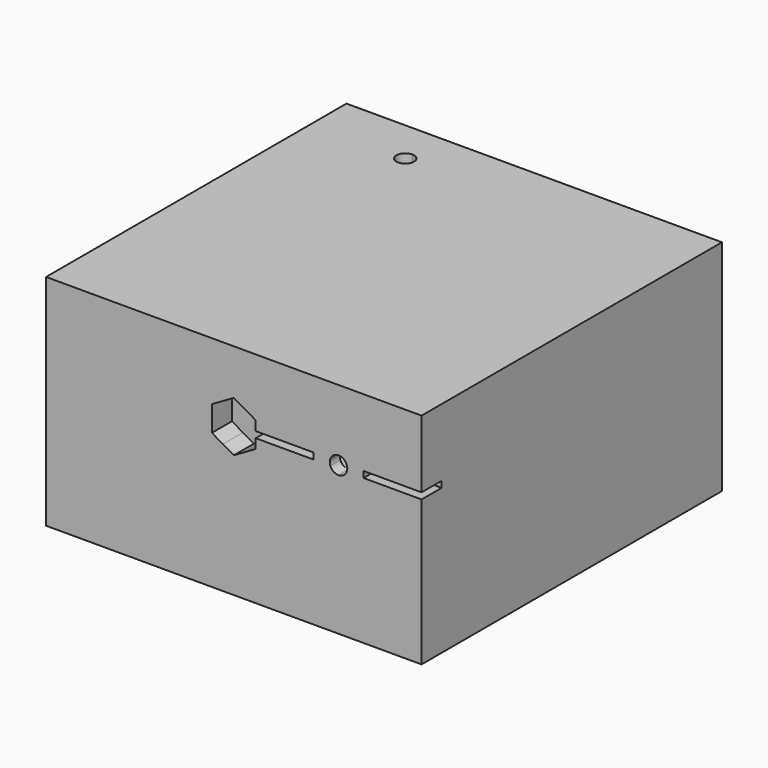
from build123d import *

# Parameters (mm, degrees)
F0_W     = 60
F0_H     = 60
F1_DEPTH = 35
F3_DEPTH = 10
F2_W     = 9.2679491924
F2_H     = 1
F4_DEPTH = 4
F5_DEPTH = 2
F6_W     = 2
F6_H     = 0.5
F6_H_2   = 4.5
F6_W_2   = 1.75
F7_DEPTH = 10
F9_DEPTH = 23


with BuildPart() as f1:
    # F0 (on Top) → F1 (new body)
    with BuildSketch(Plane.XY):
        Rectangle(F0_W, F0_H)
    extrude(amount=F1_DEPTH)

    # F2 (on face) → F3 (cut)
    with BuildSketch(Plane.XZ.offset(30)):
        with BuildLine():
            ThreePointArc((15.4243811245, 24.2090167701), (15.9383254142, 24.8622730296), (16.7320508076, 25.1090167701))
            Line((16.7320508076, 25.1090167701), (12.7320508076, 25.1090167701))
            Line((12.7320508076, 25.1090167701), (12.7320508076, 24.2090167701))
            Line((12.7320508076, 24.2090167701), (15.4243811245, 24.2090167701))
        make_face()
        with BuildLine():
            ThreePointArc((15.4243811245, 23.2090167701), (15.3320508076, 23.7090167701), (15.4243811245, 24.2090167701))
            Line((15.4243811245, 24.2090167701), (12.7320508076, 24.2090167701))
            Line((12.7320508076, 24.2090167701), (12.7320508076, 23.2090167701))
            Line((12.7320508076, 23.2090167701), (15.4243811245, 23.2090167701))
        make_face()
        with BuildLine():
            Line((12.7320508076, 22.3090167701), (16.7320508076, 22.3090167701))
            ThreePointArc((16.7320508076, 22.3090167701), (15.9383254142, 22.5557605107), (15.4243811245, 23.2090167701))
            Line((15.4243811245, 23.2090167701), (12.7320508076, 23.2090167701))
            Line((12.7320508076, 23.2090167701), (12.7320508076, 22.3090167701))
        make_face()
        with BuildLine():
            ThreePointArc((18.1320508076, 23.7090167701), (18.1087747371, 23.9632434836), (18.0397204906, 24.2090167701))
            ThreePointArc((18.0397204906, 24.2090167701), (17.5257762009, 24.8622730296), (16.7320508076, 25.1090167701))
            ThreePointArc((16.7320508076, 25.1090167701), (15.9383254142, 24.8622730296), (15.4243811245, 24.2090167701))
            ThreePointArc((15.4243811245, 24.2090167701), (15.3320508076, 23.7090167701), (15.4243811245, 23.2090167701))
            ThreePointArc((15.4243811245, 23.2090167701), (15.9383254142, 22.5557605107), (16.7320508076, 22.3090167701))
            ThreePointArc((16.7320508076, 22.3090167701), (17.5257762009, 22.5557605107), (18.0397204906, 23.2090167701))
            ThreePointArc((18.0397204906, 23.2090167701), (18.1087747371, 23.4547900566), (18.1320508076, 23.7090167701))
        make_face()
        with BuildLine():
            Line((18.0397204906, 24.2090167701), (20.7320508076, 24.2090167701))
            Line((20.7320508076, 24.2090167701), (20.7320508076, 25.1090167701))
            Line((20.7320508076, 25.1090167701), (16.7320508076, 25.1090167701))
            ThreePointArc((16.7320508076, 25.1090167701), (17.5257762009, 24.8622730296), (18.0397204906, 24.2090167701))
        make_face()
        with BuildLine():
            Line((20.7320508076, 23.2090167701), (20.7320508076, 24.2090167701))
            Line((20.7320508076, 24.2090167701), (18.0397204906, 24.2090167701))
            ThreePointArc((18.0397204906, 24.2090167701), (18.1087747371, 23.9632434836), (18.1320508076, 23.7090167701))
            ThreePointArc((18.1320508076, 23.7090167701), (18.1087747371, 23.4547900566), (18.0397204906, 23.2090167701))
            Line((18.0397204906, 23.2090167701), (20.7320508076, 23.2090167701))
        make_face()
        with BuildLine():
            Line((20.7320508076, 22.3090167701), (20.7320508076, 23.2090167701))
            Line((20.7320508076, 23.2090167701), (18.0397204906, 23.2090167701))
            ThreePointArc((18.0397204906, 23.2090167701), (17.5257762009, 22.5557605107), (16.7320508076, 22.3090167701))
            Line((16.7320508076, 22.3090167701), (20.7320508076, 22.3090167701))
        make_face()
    extrude(amount=-F3_DEPTH, mode=Mode.SUBTRACT)

    # F2 (on face) → F4 (cut)
    with BuildSketch(Plane.XZ.offset(30)):
        with Locations((25.3660254038, 23.7090167701)):
            Rectangle(F2_W, F2_H)
        with BuildLine():
            Line((20.7320508076, 23.2090167701), (20.7320508076, 24.2090167701))
            Line((20.7320508076, 24.2090167701), (18.0397204906, 24.2090167701))
            ThreePointArc((18.0397204906, 24.2090167701), (18.1087747371, 23.9632434836), (18.1320508076, 23.7090167701))
            ThreePointArc((18.1320508076, 23.7090167701), (18.1087747371, 23.4547900566), (18.0397204906, 23.2090167701))
            Line((18.0397204906, 23.2090167701), (20.7320508076, 23.2090167701))
        make_face()
        with BuildLine():
            Line((18.0397204906, 24.2090167701), (20.7320508076, 24.2090167701))
            Line((20.7320508076, 24.2090167701), (20.7320508076, 25.1090167701))
            Line((20.7320508076, 25.1090167701), (16.7320508076, 25.1090167701))
            ThreePointArc((16.7320508076, 25.1090167701), (17.5257762009, 24.8622730296), (18.0397204906, 24.2090167701))
        make_face()
        with BuildLine():
            ThreePointArc((18.1320508076, 23.7090167701), (18.1087747371, 23.9632434836), (18.0397204906, 24.2090167701))
            ThreePointArc((18.0397204906, 24.2090167701), (17.5257762009, 24.8622730296), (16.7320508076, 25.1090167701))
            ThreePointArc((16.7320508076, 25.1090167701), (15.9383254142, 24.8622730296), (15.4243811245, 24.2090167701))
            ThreePointArc((15.4243811245, 24.2090167701), (15.3320508076, 23.7090167701), (15.4243811245, 23.2090167701))
            ThreePointArc((15.4243811245, 23.2090167701), (15.9383254142, 22.5557605107), (16.7320508076, 22.3090167701))
            ThreePointArc((16.7320508076, 22.3090167701), (17.5257762009, 22.5557605107), (18.0397204906, 23.2090167701))
            ThreePointArc((18.0397204906, 23.2090167701), (18.1087747371, 23.4547900566), (18.1320508076, 23.7090167701))
        make_face()
        with BuildLine():
            Line((20.7320508076, 22.3090167701), (20.7320508076, 23.2090167701))
            Line((20.7320508076, 23.2090167701), (18.0397204906, 23.2090167701))
            ThreePointArc((18.0397204906, 23.2090167701), (17.5257762009, 22.5557605107), (16.7320508076, 22.3090167701))
            Line((16.7320508076, 22.3090167701), (20.7320508076, 22.3090167701))
        make_face()
        with BuildLine():
            ThreePointArc((15.4243811245, 24.2090167701), (15.9383254142, 24.8622730296), (16.7320508076, 25.1090167701))
            Line((16.7320508076, 25.1090167701), (12.7320508076, 25.1090167701))
            Line((12.7320508076, 25.1090167701), (12.7320508076, 24.2090167701))
            Line((12.7320508076, 24.2090167701), (15.4243811245, 24.2090167701))
        make_face()
        with BuildLine():
            ThreePointArc((15.4243811245, 23.2090167701), (15.3320508076, 23.7090167701), (15.4243811245, 24.2090167701))
            Line((15.4243811245, 24.2090167701), (12.7320508076, 24.2090167701))
            Line((12.7320508076, 24.2090167701), (12.7320508076, 23.2090167701))
            Line((12.7320508076, 23.2090167701), (15.4243811245, 23.2090167701))
        make_face()
        with BuildLine():
            Line((12.7320508076, 22.3090167701), (16.7320508076, 22.3090167701))
            ThreePointArc((16.7320508076, 22.3090167701), (15.9383254142, 22.5557605107), (15.4243811245, 23.2090167701))
            Line((15.4243811245, 23.2090167701), (12.7320508076, 23.2090167701))
            Line((12.7320508076, 23.2090167701), (12.7320508076, 22.3090167701))
        make_face()
        Polygon((12.7320508076, 23.2090167701), (12.7320508076, 24.2090167701), (3.5, 24.2090167701), (3.5, 23.7090167701), (3.5, 23.2090167701), align=None)
        with BuildLine():
            Line((3.4641016151, 24.2090167701), (3.5, 24.2090167701))
            Line((3.5, 24.2090167701), (3.5, 25.7297427123))
            Line((3.5, 25.7297427123), (1.7500000362, 26.7401056625))
            ThreePointArc((1.7500000362, 26.7401056625), (2.897984947, 25.6715873414), (3.4641016151, 24.2090167701))
        make_face()
        with BuildLine():
            Line((3.5, 23.7090167701), (3.5, 24.2090167701))
            Line((3.5, 24.2090167701), (3.4641016151, 24.2090167701))
            ThreePointArc((3.4641016151, 24.2090167701), (3.491013868, 23.9596602889), (3.5, 23.7090167701))
        make_face()
        with BuildLine():
            Line((3.4641016151, 23.2090167701), (3.5, 23.2090167701))
            Line((3.5, 23.2090167701), (3.5, 23.7090167701))
            ThreePointArc((3.5, 23.7090167701), (3.491013868, 23.4583732513), (3.4641016151, 23.2090167701))
        make_face()
        with BuildLine():
            Line((3.5, 21.688290828), (3.5, 23.2090167701))
            Line((3.5, 23.2090167701), (3.4641016151, 23.2090167701))
            ThreePointArc((3.4641016151, 23.2090167701), (2.8979849006, 21.7464461304), (1.7499998929, 20.6779277951))
            Line((1.7499998929, 20.6779277951), (3.5, 21.688290828))
        make_face()
        with BuildLine():
            ThreePointArc((3.4641016151, 23.2090167701), (3.491013868, 23.4583732513), (3.5, 23.7090167701))
            ThreePointArc((3.5, 23.7090167701), (3.491013868, 23.9596602889), (3.4641016151, 24.2090167701))
            ThreePointArc((3.4641016151, 24.2090167701), (2.897984947, 25.6715873414), (1.7500000362, 26.7401056625))
            ThreePointArc((1.7500000362, 26.7401056625), (-1.83e-08, 27.2090167701), (-1.7500000679, 26.7401056441))
            ThreePointArc((-1.7500000679, 26.7401056441), (-3.0310889329, 25.4590167362), (-3.5, 23.7090167701))
            ThreePointArc((-3.5, 23.7090167701), (-3.0310889298, 21.9590167989), (-1.7500000575, 20.6779278901))
            ThreePointArc((-1.7500000575, 20.6779278901), (-9.5e-08, 20.2090167701), (1.7499998929, 20.6779277951))
            ThreePointArc((1.7499998929, 20.6779277951), (2.8979849006, 21.7464461304), (3.4641016151, 23.2090167701))
        make_face()
        with BuildLine():
            ThreePointArc((-1.7500000679, 26.7401056441), (-1.83e-08, 27.2090167701), (1.7500000362, 26.7401056625))
            Line((1.7500000362, 26.7401056625), (0, 27.7504686545))
            Line((0, 27.7504686545), (-1.7500000679, 26.7401056441))
        make_face()
        with BuildLine():
            Line((0, 19.6675648858), (1.7499998929, 20.6779277951))
            ThreePointArc((1.7499998929, 20.6779277951), (-9.5e-08, 20.2090167701), (-1.7500000575, 20.6779278901))
            Line((-1.7500000575, 20.6779278901), (0, 19.6675648858))
        make_face()
        with BuildLine():
            ThreePointArc((-3.5, 23.7090167701), (-3.0310889329, 25.4590167362), (-1.7500000679, 26.7401056441))
            Line((-1.7500000679, 26.7401056441), (-3.5, 25.7297427123))
            Line((-3.5, 25.7297427123), (-3.5, 23.7090167701))
        make_face()
        with BuildLine():
            Line((-3.5, 21.688290828), (-1.7500000575, 20.6779278901))
            ThreePointArc((-1.7500000575, 20.6779278901), (-3.0310889298, 21.9590167989), (-3.5, 23.7090167701))
            Line((-3.5, 23.7090167701), (-3.5, 21.688290828))
        make_face()
    extrude(amount=-F4_DEPTH, mode=Mode.SUBTRACT)

    # F2 (on face) → F5 (join)
    with BuildSketch(Plane.XZ.offset(30)):
        with BuildLine():
            Line((20.7320508076, 22.3090167701), (20.7320508076, 23.2090167701))
            Line((20.7320508076, 23.2090167701), (18.0397204906, 23.2090167701))
            ThreePointArc((18.0397204906, 23.2090167701), (17.5257762009, 22.5557605107), (16.7320508076, 22.3090167701))
            Line((16.7320508076, 22.3090167701), (20.7320508076, 22.3090167701))
        make_face()
        with BuildLine():
            ThreePointArc((15.4243811245, 24.2090167701), (15.9383254142, 24.8622730296), (16.7320508076, 25.1090167701))
            Line((16.7320508076, 25.1090167701), (12.7320508076, 25.1090167701))
            Line((12.7320508076, 25.1090167701), (12.7320508076, 24.2090167701))
            Line((12.7320508076, 24.2090167701), (15.4243811245, 24.2090167701))
        make_face()
        with BuildLine():
            Line((12.7320508076, 22.3090167701), (16.7320508076, 22.3090167701))
            ThreePointArc((16.7320508076, 22.3090167701), (15.9383254142, 22.5557605107), (15.4243811245, 23.2090167701))
            Line((15.4243811245, 23.2090167701), (12.7320508076, 23.2090167701))
            Line((12.7320508076, 23.2090167701), (12.7320508076, 22.3090167701))
        make_face()
        with BuildLine():
            Line((20.7320508076, 23.2090167701), (20.7320508076, 24.2090167701))
            Line((20.7320508076, 24.2090167701), (18.0397204906, 24.2090167701))
            ThreePointArc((18.0397204906, 24.2090167701), (18.1087747371, 23.9632434836), (18.1320508076, 23.7090167701))
            ThreePointArc((18.1320508076, 23.7090167701), (18.1087747371, 23.4547900566), (18.0397204906, 23.2090167701))
            Line((18.0397204906, 23.2090167701), (20.7320508076, 23.2090167701))
        make_face()
        with BuildLine():
            ThreePointArc((15.4243811245, 23.2090167701), (15.3320508076, 23.7090167701), (15.4243811245, 24.2090167701))
            Line((15.4243811245, 24.2090167701), (12.7320508076, 24.2090167701))
            Line((12.7320508076, 24.2090167701), (12.7320508076, 23.2090167701))
            Line((12.7320508076, 23.2090167701), (15.4243811245, 23.2090167701))
        make_face()
        with BuildLine():
            Line((18.0397204906, 24.2090167701), (20.7320508076, 24.2090167701))
            Line((20.7320508076, 24.2090167701), (20.7320508076, 25.1090167701))
            Line((20.7320508076, 25.1090167701), (16.7320508076, 25.1090167701))
            ThreePointArc((16.7320508076, 25.1090167701), (17.5257762009, 24.8622730296), (18.0397204906, 24.2090167701))
        make_face()
    extrude(amount=-F5_DEPTH)

    # F6 (on face) → F7 (cut)
    with BuildSketch(Plane(origin=(0, 30, 0), x_dir=(-1, 0, 0), z_dir=(0, 1, 0))):
        with BuildLine():
            ThreePointArc((-1.7499999142, 20.6296540127), (1.58e-08, 21.0985650499), (1.7499999416, 20.6296539969))
            Line((1.7499999416, 20.6296539969), (0, 21.6400169342))
            Line((0, 21.6400169342), (-1.7499999142, 20.6296540127))
        make_face()
        with BuildLine():
            Line((-3.5, 19.6192909921), (-3.5, 17.5985650499))
            ThreePointArc((-3.5, 17.5985650499), (-3.0310888885, 19.3485650928), (-1.7499999142, 20.6296540127))
            Line((-1.7499999142, 20.6296540127), (-3.5, 19.6192909921))
        make_face()
        with BuildLine():
            Line((-3.5, 15.5778391077), (-1.7500000132, 14.5674761443))
            ThreePointArc((-1.7500000132, 14.5674761443), (-3.0310889171, 15.8485650565), (-3.5, 17.5985650499))
            Line((-3.5, 17.5985650499), (-3.5, 15.5778391077))
        make_face()
        with BuildLine():
            Line((0, 13.5571131656), (1.7500000301, 14.567476154))
            ThreePointArc((1.7500000301, 14.567476154), (9.8e-09, 14.0985650499), (-1.7500000132, 14.5674761443))
            Line((-1.7500000132, 14.5674761443), (0, 13.5571131656))
        make_face()
        with BuildLine():
            Line((3.5, 15.5778391077), (3.5, 17.0985650499))
            Line((3.5, 17.0985650499), (3.4641016151, 17.0985650499))
            ThreePointArc((3.4641016151, 17.0985650499), (2.897984945, 15.6359944757), (1.7500000301, 14.567476154))
            Line((1.7500000301, 14.567476154), (3.5, 15.5778391077))
        make_face()
        with BuildLine():
            Line((3.4641016151, 17.0985650499), (3.5, 17.0985650499))
            Line((3.5, 17.0985650499), (3.5, 17.5985650499))
            ThreePointArc((3.5, 17.5985650499), (3.491013868, 17.3479215311), (3.4641016151, 17.0985650499))
        make_face()
        with BuildLine():
            ThreePointArc((3.4641016151, 18.0985650499), (3.491013868, 17.8492085687), (3.5, 17.5985650499))
            Line((3.5, 17.5985650499), (3.5, 18.0985650499))
            Line((3.5, 18.0985650499), (3.4641016151, 18.0985650499))
        make_face()
        with BuildLine():
            ThreePointArc((1.7499999416, 20.6296539969), (2.8979849163, 19.5611356664), (3.4641016151, 18.0985650499))
            Line((3.4641016151, 18.0985650499), (3.5, 18.0985650499))
            Line((3.5, 18.0985650499), (3.5, 19.6192909921))
            Line((3.5, 19.6192909921), (1.7499999416, 20.6296539969))
        make_face()
        Polygon((17, 17.0985650499), (30, 17.0985650499), (30, 18.0985650499), (17, 18.0985650499), (17, 17.5985650499), align=None)
        with BuildLine():
            ThreePointArc((1.7500000301, 14.567476154), (2.897984945, 15.6359944757), (3.4641016151, 17.0985650499))
            Line((3.4641016151, 17.0985650499), (0, 17.0985650499))
            Line((0, 17.0985650499), (0, 18.0985650499))
            Line((0, 18.0985650499), (3.4641016151, 18.0985650499))
            ThreePointArc((3.4641016151, 18.0985650499), (2.8979849163, 19.5611356664), (1.7499999416, 20.6296539969))
            ThreePointArc((1.7499999416, 20.6296539969), (1.58e-08, 21.0985650499), (-1.7499999142, 20.6296540127))
            ThreePointArc((-1.7499999142, 20.6296540127), (-3.0310888885, 19.3485650928), (-3.5, 17.5985650499))
            ThreePointArc((-3.5, 17.5985650499), (-3.0310889171, 15.8485650565), (-1.7500000132, 14.5674761443))
            ThreePointArc((-1.7500000132, 14.5674761443), (9.8e-09, 14.0985650499), (1.7500000301, 14.567476154))
        make_face()
        with Locations((14, 17.3485650499)):
            Rectangle(F6_W, F6_H)
        with Locations((16, 17.3485650499)):
            Rectangle(F6_W, F6_H)
        with Locations((16, 14.8485650499)):
            Rectangle(F6_W, F6_H_2)
        with Locations((14, 14.8485650499)):
            Rectangle(F6_W, F6_H_2)
        with BuildLine():
            Line((0, 17.0985650499), (3.4641016151, 17.0985650499))
            ThreePointArc((3.4641016151, 17.0985650499), (3.491013868, 17.3479215311), (3.5, 17.5985650499))
            ThreePointArc((3.5, 17.5985650499), (3.491013868, 17.8492085687), (3.4641016151, 18.0985650499))
            Line((3.4641016151, 18.0985650499), (0, 18.0985650499))
            Line((0, 18.0985650499), (0, 17.0985650499))
        make_face()
        Polygon((15, 18.0985650499), (15.25, 18.0985650499), (15.25, 22.5985650499), (14.75, 22.5985650499), (14.75, 18.0985650499), align=None)
        with Locations((13.875, 20.3485650499)):
            Rectangle(F6_W_2, F6_H_2)
        with Locations((16.125, 20.3485650499)):
            Rectangle(F6_W_2, F6_H_2)
        Polygon((13, 17.5985650499), (15, 17.5985650499), (15, 18.0985650499), (14.75, 18.0985650499), (13, 18.0985650499), align=None)
        Polygon((15, 17.5985650499), (17, 17.5985650499), (17, 18.0985650499), (15.25, 18.0985650499), (15, 18.0985650499), align=None)
        Polygon((3.5, 17.0985650499), (13, 17.0985650499), (13, 17.5985650499), (13, 18.0985650499), (3.5, 18.0985650499), (3.5, 17.5985650499), align=None)
    extrude(amount=-F7_DEPTH, mode=Mode.SUBTRACT)

    # F8 (on face) → F9 (cut)
    with BuildSketch(Plane.XY.offset(35)):
        with BuildLine():
            ThreePointArc((-13.6, 23), (-14.0100505063, 23.9899494937), (-15, 24.4))
            Line((-15, 24.4), (-15, 21.6))
            ThreePointArc((-15, 21.6), (-14.0100505063, 22.0100505063), (-13.6, 23))
        make_face()
        with BuildLine():
            Line((-15, 21.6), (-15, 24.4))
            ThreePointArc((-15, 24.4), (-16.4, 23), (-15, 21.6))
        make_face()
    extrude(amount=-F9_DEPTH, mode=Mode.SUBTRACT)


solid = f1.part
